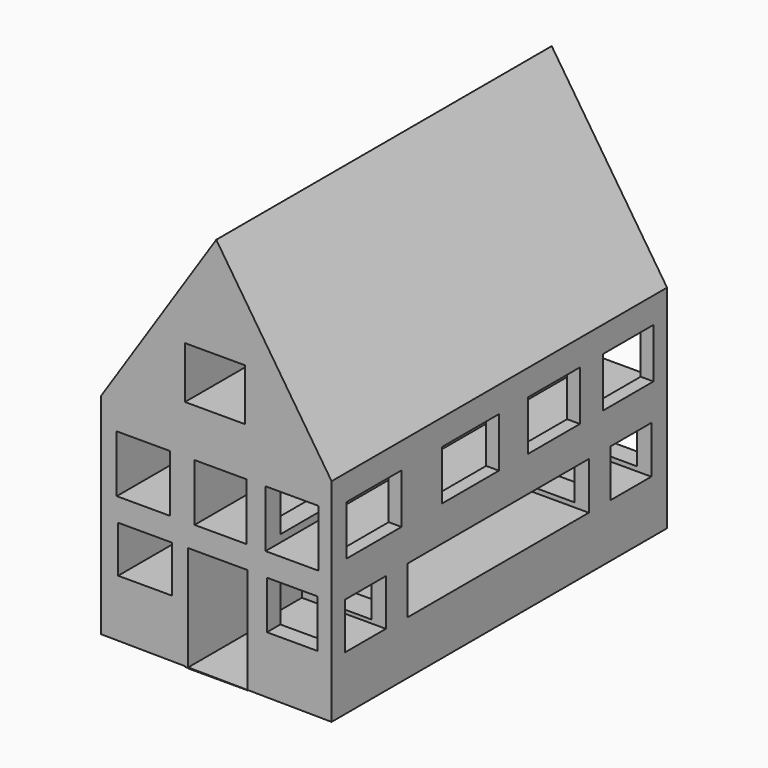
from build123d import *

# Parameters (mm, degrees)
F0_W     = 719.1014140844
F0_H     = 4.2285388547
F1_DEPTH = 5080
F2_W     = 619.1064715385
F2_H     = 574.0804672241
F2_W_2   = 2746.581196785
F2_W_3   = 619.1062927246
F2_H_2   = 562.824010849
F2_W_4   = 859.6296310425
F2_H_3   = 603.514790535
F2_W_5   = 832.9792022705
F2_W_6   = 787.9537343979
F2_W_7   = 765.4407322407
F3_DEPTH = 22860


with BuildPart() as f1:
    # F0 (on Front) → F1 (new body)
    with BuildSketch(Plane.XZ):
        Polygon((1492.6249932137, 314.2587009146), (-1301.2440692736, 314.2587009146), (-1301.2440692736, -2225.7412990854), (-283.2953631878, -2235.5967159756), (-283.2953631878, -873.3429312706), (493.6245184562, -873.3429312706), (493.6245184562, -2243.1185776156), (1492.6249932137, -2252.7905444773), align=None)
        Polygon((-1093.4180021286, -1251.9666472425), (-1093.4180021286, -969.2659217814), (-765.7246668978, -969.2659217814), (-438.031331667, -969.2659217814), (-438.031331667, -1251.9666472425), (-438.031331667, -1534.6673727036), (-765.7246668978, -1534.6673727036), (-1093.4180021286, -1534.6673727036), align=None, mode=Mode.SUBTRACT)
        Polygon((-1109.9511384964, -345.739364624), (-1109.9511384964, 0), (-787.5555157661, 0), (-465.1598930359, 0), (-465.1598930359, -345.739364624), (-465.1598930359, -691.478729248), (-787.5555157661, -691.478729248), (-1109.9511384964, -691.478729248), align=None, mode=Mode.SUBTRACT)
        Polygon((708.6911201477, -1260.2333346357), (708.6911201477, -969.2659217814), (1014.5537257195, -969.2659217814), (1320.4163312912, -969.2659217814), (1320.4163312912, -1260.2333346357), (1320.4163312912, -1551.2007474899), (1014.5537257195, -1551.2007474899), (708.6911201477, -1551.2007474899), align=None, mode=Mode.SUBTRACT)
        Polygon((-167.5638109446, -345.739364624), (-167.5638109446, 0), (146.5654447675, 0), (460.6947004795, 0), (460.6947004795, -345.739364624), (460.6947004795, -691.478729248), (146.5654447675, -691.478729248), (-167.5638109446, -691.478729248), align=None, mode=Mode.SUBTRACT)
        Polygon((692.1581625938, -345.739364624), (692.1581625938, 0), (1014.5538747311, 0), (1336.9495868683, 0), (1336.9495868683, -345.739364624), (1336.9495868683, -691.478729248), (1014.5538747311, -691.478729248), (692.1581625938, -691.478729248), align=None, mode=Mode.SUBTRACT)
        Polygon((95.69046197, 2435.6200363355), (-1301.2440692736, 314.2587009146), (1492.6249932137, 314.2587009146), align=None)
        Polygon((-283.2953631878, 895.6999182701), (-283.2953631878, 1209.8290920258), (80.4329961538, 1209.8290920258), (444.1613554955, 1209.8290920258), (444.1613554955, 895.6999182701), (444.1613554955, 581.5707445145), (80.4329961538, 581.5707445145), (-283.2953631878, 581.5707445145), align=None, mode=Mode.SUBTRACT)
        Polygon((-283.2953631878, -873.3429312706), (-283.2953631878, -2235.5967159756), (-244.4353848696, -2235.972944448), (-244.4353848696, -964.0274047852), (474.6660292149, -964.0274047852), (474.6660292149, -2242.9350282737), (493.6245184562, -2243.1185776156), (493.6245184562, -873.3429312706), align=None)
        Polygon((-244.4353848696, -2235.972944448), (-283.2953631878, -2235.5967159756), (-283.2953631878, -2243.1185776156), (-244.4353848696, -2243.1185776156), align=None)
        Polygon((474.6660292149, -2242.9350282737), (-244.4353848696, -2235.972944448), (-244.4353848696, -2243.1185776156), (474.6660292149, -2243.1185776156), align=None)
        Polygon((474.6660292149, -2243.1185776156), (493.6245184562, -2243.1185776156), (474.6660292149, -2242.9350282737), align=None)
        with Locations((115.1153221726, -2245.232847043)):
            Rectangle(F0_W, F0_H)
    extrude(amount=F1_DEPTH)

    # F2 (on Right) → F3 (cut)
    with BuildSketch(Plane.YZ):
        with Locations((-548.2657849789, -1318.301320076)):
            Rectangle(F2_W, F2_H)
        with Locations((-2557.5475096703, -1318.301320076)):
            Rectangle(F2_W_2, F2_H)
        with Locations((-4566.8292045593, -1312.6730918884)):
            Rectangle(F2_W_3, F2_H_2)
        with Locations((-2974.9321937561, -301.7573952675)):
            Rectangle(F2_W_4, F2_H_3)
        with Locations((-4437.3798370361, -301.7573952675)):
            Rectangle(F2_W_5, F2_H_3)
        with Locations((-1713.3114933968, -301.7573952675)):
            Rectangle(F2_W_6, F2_H_3)
        with Locations((-587.6635164022, -301.7573952675)):
            Rectangle(F2_W_7, F2_H_3)
    extrude(amount=F3_DEPTH, mode=Mode.SUBTRACT)


solid = f1.part
